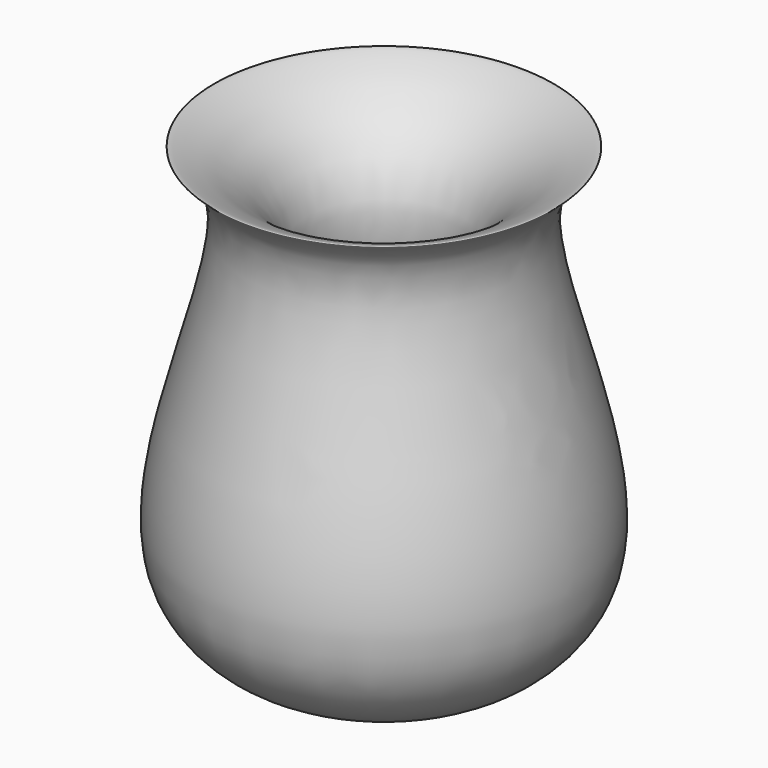
from build123d import *


with BuildPart() as f1:
    # F0 (on Front) → F1 (revolve)
    with BuildSketch(Plane.XZ):
        with BuildLine():
            add(Edge.make_bspline(
                [(14.2475664616, 37.6871190965), (14.4921632921, 37.6430768617), (7.1019002011, 33.8008415323), (23.4580412495, 4.8932465481), (1.9452482501, -4.1575726796), (-0.5609045807, 10.5504385519), (19.4113082758, 5.4424555829), (-1.0688787129, 31.6956650657), (13.8610132841, 37.7567220664), (14.2475664616, 37.6871190965)],
                knots=[0, 0, 0, 0, 0.0824774344, 0.2967342154, 0.4455732573, 0.5558851755, 0.6824237931, 0.8696552435, 1, 1, 1, 1], degree=3))
        make_face()
    revolve(axis=Axis((0, 0, 11.9495699182), (0, 0, -1)))


solid = f1.part
